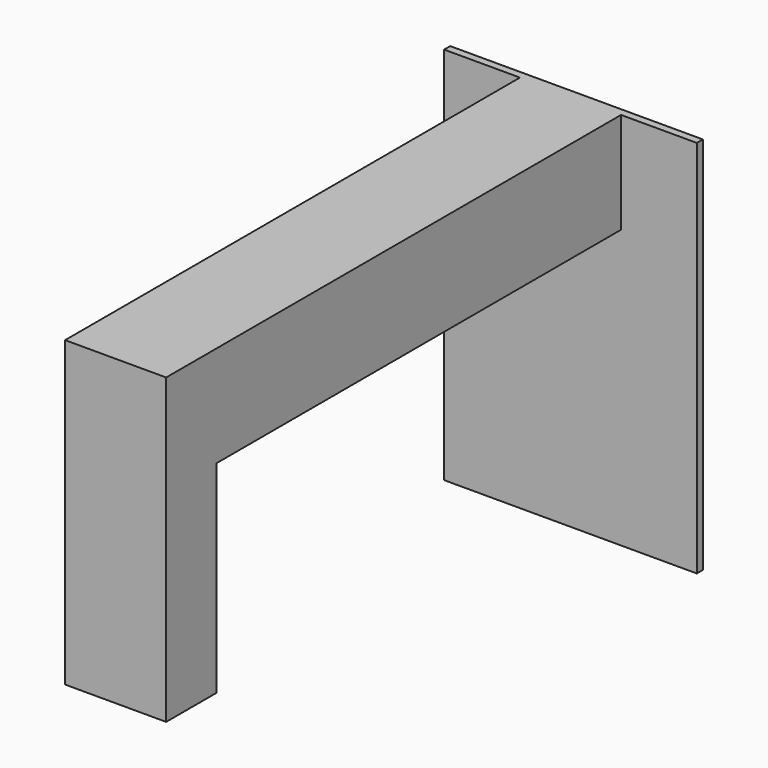
from build123d import *

# Parameters (mm, degrees)
F0_W     = 100
F0_H     = 150
F1_DEPTH = 3
F2_W     = 36
F2_H     = 36
F3_DEPTH = 200
F4_W     = 40
F4_H     = 120
F5_DEPTH = 25


with BuildPart() as f1:
    # F0 (on Front) → F1 (new body)
    with BuildSketch(Plane.XZ):
        Rectangle(F0_W, F0_H)
    extrude(amount=F1_DEPTH)

    # F2 (on face) → F3 (join)
    with BuildSketch(Plane.XZ.offset(3)):
        Polygon((20, 75), (0, 75), (-20, 75), (-20, 35), (20, 35), align=None)
        with Locations((0, 55)):
            Rectangle(F2_W, F2_H, mode=Mode.SUBTRACT)
    extrude(amount=F3_DEPTH)

    # F4 (on face) → F5 (join)
    with BuildSketch(Plane.XZ.offset(203)):
        with Locations((0, 15)):
            Rectangle(F4_W, F4_H)
    extrude(amount=F5_DEPTH)


solid = f1.part
